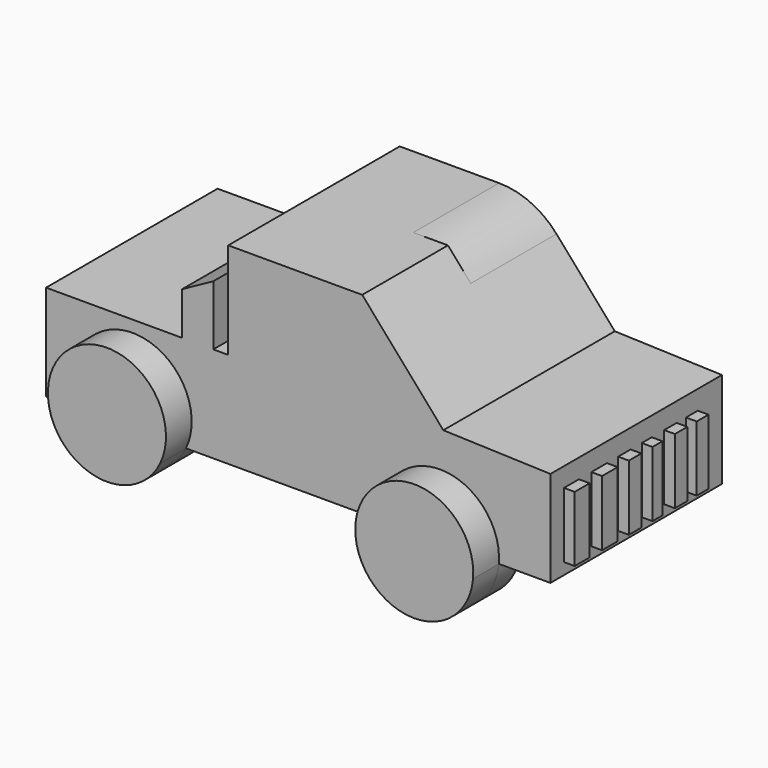
from build123d import *

# Parameters (mm, degrees)
F0_W      = 6.5593134881
F0_H      = 8.9133062686
F1_DEPTH  = 25.4
F3_DEPTH  = 6.35
F4_R      = 18.0901122542
F5_W      = 4.4245161116
F5_H      = 15.4858082533
F5_W_2    = 4.6088704839
F5_W_3    = 3.6870974582
F5_W_4    = 2.9496757779
F5_W_5    = 3.6870958284
F5_W_6    = 3.502741456
F6_DEPTH  = 2.54
F7_DEPTH  = 25.4
F9_DEPTH  = 6.35
F10_DEPTH = 7.62


with BuildPart() as f1:
    # F0 (on Front) → F1 (new body, symmetric)
    with BuildSketch(Plane.XZ):
        Polygon((-54.9742393196, 6.6901401331), (-43.815, 6.6901401331), (-22.225, 6.6901401331), (22.225, 6.6901401331), (43.815, 6.6901401331), (57.996344903, 6.6901401331), (57.996344903, 21.7543058097), (57.996344903, 29.4315865307), (32.6111048418, 30.2973734773), (13.3892763085, 52.2915865307), (-18.3607236915, 52.2915865307), (-18.3607236915, 29.4315865307), (-21.9099149108, 29.4315865307), (-29.2985904962, 29.4315865307), (-61.5335528077, 29.4315865307), (-61.5335528077, 15.6034464017), (-54.9742393196, 15.6034464017), align=None)
        with Locations((-58.2538960636, 11.1467932674)):
            Rectangle(F0_W, F0_H)
        Polygon((-29.2985904962, 39.587803185), (-29.2985904962, 29.4315865307), (-21.9099149108, 29.4315865307), (-21.9099149108, 43.6486341059), align=None)
    extrude(amount=F1_DEPTH, both=True)

    # F2 (on face) → F3 (cut)
    with BuildSketch(Plane.XZ.offset(25.4)):
        Polygon((12.8608942032, 49.0364283323), (-14.8549089208, 49.0364283323), (-14.8549089208, 30.4625499994), (27.4568814784, 30.4625499994), align=None)
    extrude(amount=-F3_DEPTH, mode=Mode.SUBTRACT)

    # F4
    f4_edges = [f1.edges().sort_by_distance(p)[0] for p in [
        (13.389276, 0, 52.291587),
    ]]
    fillet(f4_edges, radius=F4_R)

    # F5 (on face) → F6 (join)
    with BuildSketch(Plane.YZ.offset(57.996344903)):
        with Locations((-19.1729031503, 17.1450003982)):
            Rectangle(F5_W, F5_H)
        with Locations((-10.9691130929, 17.1450003982)):
            Rectangle(F5_W_2, F5_H)
        with Locations((-3.5027425038, 17.1450003982)):
            Rectangle(F5_W_3, F5_H)
        with Locations((3.1340321293, 17.1450003982)):
            Rectangle(F5_W_4, F5_H)
        with Locations((10.1395170204, 17.1450003982)):
            Rectangle(F5_W_5, F5_H)
        with Locations((16.4997577667, 17.1450003982)):
            Rectangle(F5_W_6, F5_H)
    extrude(amount=F6_DEPTH)

    # F0 (on Front) → F7 (join)
    with BuildSketch(Plane.XZ):
        Polygon((-54.9742393196, 6.6901401331), (-43.815, 6.6901401331), (-22.225, 6.6901401331), (22.225, 6.6901401331), (43.815, 6.6901401331), (57.996344903, 6.6901401331), (57.996344903, 21.7543058097), (57.996344903, 29.4315865307), (32.6111048418, 30.2973734773), (13.3892763085, 52.2915865307), (-18.3607236915, 52.2915865307), (-18.3607236915, 29.4315865307), (-21.9099149108, 29.4315865307), (-29.2985904962, 29.4315865307), (-61.5335528077, 29.4315865307), (-61.5335528077, 15.6034464017), (-54.9742393196, 15.6034464017), align=None)
        with Locations((-58.2538960636, 11.1467932674)):
            Rectangle(F0_W, F0_H)
        Polygon((-29.2985904962, 39.587803185), (-29.2985904962, 29.4315865307), (-21.9099149108, 29.4315865307), (-21.9099149108, 43.6486341059), align=None)
    extrude(amount=F7_DEPTH)


with BuildPart() as f9:
    # F8 (on face) → F9 (new body, symmetric)
    with BuildSketch(Plane.XZ.offset(25.4)):
        with BuildLine():
            Line((-28.3763644468, 6.6901401331), (-53.6567698276, 6.6901401331))
            ThreePointArc((-53.6567698276, 6.6901401331), (-41.0165671372, -1.3050641796), (-28.3763644468, 6.6901401331))
        make_face()
        with BuildLine():
            ThreePointArc((-28.3763644468, 6.6901401331), (-41.0165671372, 26.6739601588), (-53.6567698276, 6.6901401331))
            Line((-53.6567698276, 6.6901401331), (-28.3763644468, 6.6901401331))
        make_face()
        with BuildLine():
            Line((-28.3763644468, 6.6901401331), (-53.6567698276, 6.6901401331))
            ThreePointArc((-53.6567698276, 6.6901401331), (-41.0165671372, -1.3050641796), (-28.3763644468, 6.6901401331))
        make_face()
        with BuildLine():
            ThreePointArc((-28.3763644468, 6.6901401331), (-41.0165671372, 26.6739601588), (-53.6567698276, 6.6901401331))
            Line((-53.6567698276, 6.6901401331), (-28.3763644468, 6.6901401331))
        make_face()
        with BuildLine():
            Line((-28.3763644468, 6.6901401331), (-53.6567698276, 6.6901401331))
            ThreePointArc((-53.6567698276, 6.6901401331), (-41.0165671372, -1.3050641796), (-28.3763644468, 6.6901401331))
        make_face()
    extrude(amount=F9_DEPTH, both=True)


with BuildPart() as f9b:
    # F8 (on face) → F9, piece 2 (new body, symmetric)
    with BuildSketch(Plane.XZ.offset(25.4)):
        with BuildLine():
            ThreePointArc((45.7580525282, 6.6901401331), (31.8202361392, 21.8812033987), (17.8824197501, 6.6901401331))
            Line((17.8824197501, 6.6901401331), (45.7580525282, 6.6901401331))
        make_face()
        with BuildLine():
            Line((45.7580525282, 6.6901401331), (17.8824197501, 6.6901401331))
            ThreePointArc((17.8824197501, 6.6901401331), (31.8202361392, -6.0978209398), (45.7580525282, 6.6901401331))
        make_face()
        with BuildLine():
            ThreePointArc((45.7580525282, 6.6901401331), (31.8202361392, 21.8812033987), (17.8824197501, 6.6901401331))
            Line((17.8824197501, 6.6901401331), (45.7580525282, 6.6901401331))
        make_face()
    extrude(amount=F9_DEPTH, both=True)


with BuildPart() as f10:
    # F8 (on face) → F10 (new body)
    with BuildSketch(Plane.XZ.offset(25.4)):
        with BuildLine():
            ThreePointArc((-28.3763644468, 6.6901401331), (-41.0165671372, 26.6739601588), (-53.6567698276, 6.6901401331))
            ThreePointArc((-53.6567698276, 6.6901401331), (-41.0165671372, -1.3050641796), (-28.3763644468, 6.6901401331))
        make_face()
    extrude(amount=F10_DEPTH)


with BuildPart() as f10b:
    # F8 (on face) → F10, piece 2 (new body)
    with BuildSketch(Plane.XZ.offset(25.4)):
        with BuildLine():
            ThreePointArc((45.7580525282, 6.6901401331), (31.8202361392, 21.8812033987), (17.8824197501, 6.6901401331))
            ThreePointArc((17.8824197501, 6.6901401331), (31.8202361392, -6.0978209398), (45.7580525282, 6.6901401331))
        make_face()
    extrude(amount=F10_DEPTH)


solid = Compound([f1.part, f9.part, f9b.part, f10.part, f10b.part])
